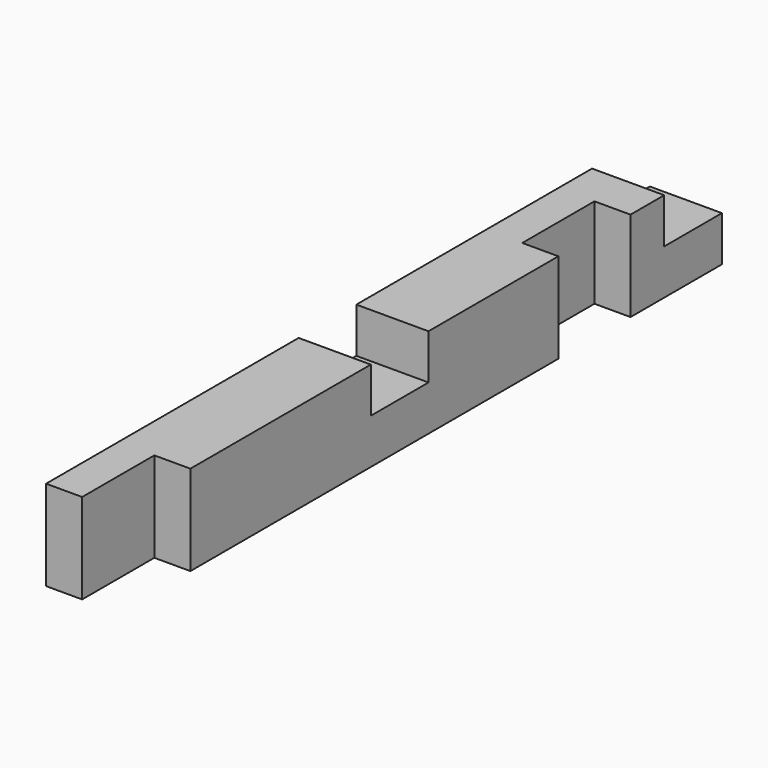
from build123d import *

# Parameters (mm, degrees)
F0_W     = 76.2
F0_H     = 95.25
F1_DEPTH = 796.925
F2_W     = 95.25
F2_H     = 95.25
F3_DEPTH = 38.1
F4_W     = 76.2
F4_H     = 47.625
F5_DEPTH = 76.201
F6_W     = 95.25
F6_H     = 95.25
F7_DEPTH = 38.1


with BuildPart() as f1:
    # F0 (on Front) → F1 (new body)
    with BuildSketch(Plane.XZ):
        with Locations((38.1, 47.625)):
            Rectangle(F0_W, F0_H)
    extrude(amount=F1_DEPTH)

    # F2 (on face) → F3 (cut)
    with BuildSketch(Plane.YZ.offset(76.2)):
        with Locations((-749.3, 47.625)):
            Rectangle(F2_W, F2_H)
    extrude(amount=-F3_DEPTH, mode=Mode.SUBTRACT)

    # F4 (on face) → F5 (cut, through all)
    with BuildSketch(Plane.YZ.offset(76.2)):
        with Locations((-425.45, 71.4375)):
            Rectangle(F4_W, F4_H)
        with Locations((-38.1, 71.4375)):
            Rectangle(F4_W, F4_H)
    extrude(amount=-F5_DEPTH, mode=Mode.SUBTRACT)

    # F6 (on face) → F7 (cut)
    with BuildSketch(Plane.YZ.offset(76.2)):
        with Locations((-168.275, 47.625)):
            Rectangle(F6_W, F6_H)
    extrude(amount=-F7_DEPTH, mode=Mode.SUBTRACT)


solid = f1.part
